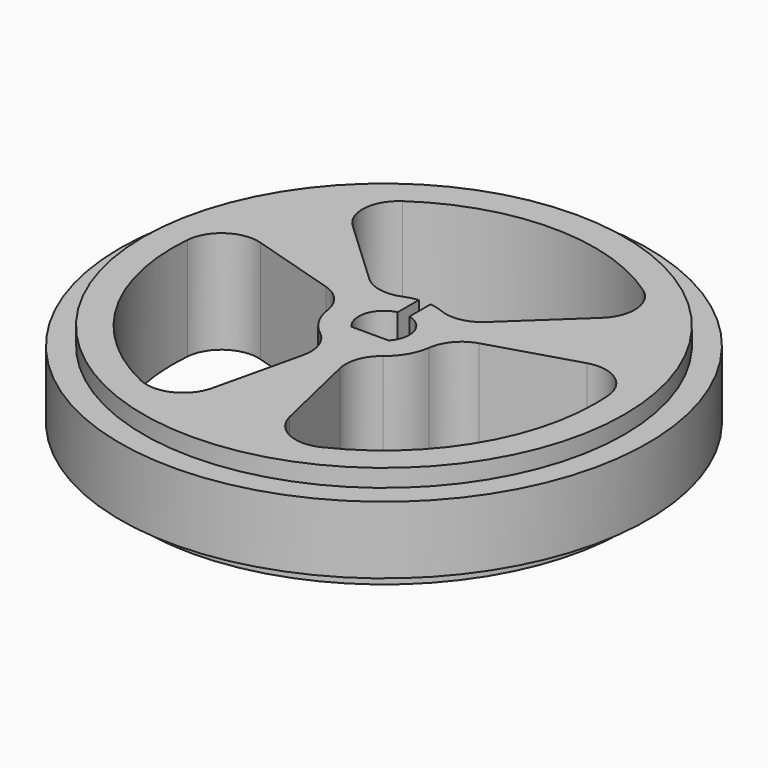
from build123d import *

# Parameters (mm, degrees)
F3_DEPTH = 7
F4_R     = 2.5


with BuildPart() as f1:
    # F0 (on Front) → F1 (revolve)
    with BuildSketch(Plane.XZ):
        Polygon((-16.4, 0), (0, 0), (0, 7), (-16.4, 7), (-16.4, 5.8), (-18, 5.8), (-18, 1.2), (-16.4, 1.2), align=None)
    revolve(axis=Axis((0, 0, 3.5), (0, 0, -1)))

    # F2 (on Top) → F3 (cut, through all)
    with BuildSketch(Plane.XY):
        with BuildLine():
            Line((-0.4, 3.477068), (-0.4, 1.677982))
            ThreePointArc((-0.4, 1.677982), (-1.651125, 0.499411), (-1.262933, -1.175))
            Line((-1.262933, -1.175), (1.262933, -1.175))
            ThreePointArc((1.262933, -1.175), (1.651125, 0.499411), (0.4, 1.677982))
            Line((0.4, 1.677982), (0.4, 3.477068))
            ThreePointArc((0.4, 3.477068), (1.573642, 3.126284), (2.55453, 2.392567))
            Line((2.55453, 2.392567), (10.510067, 9.843703))
            ThreePointArc((10.510067, 9.843703), (0, 14.4), (-10.510067, 9.843703))
            Line((-10.510067, 9.843703), (-2.55453, 2.392567))
            ThreePointArc((-2.55453, 2.392567), (-1.573642, 3.126284), (-0.4, 3.477068))
        make_face()
        with BuildLine():
            ThreePointArc((3.349289, 1.016005), (3.031089, -1.75), (0.794758, -3.408571))
            Line((0.794758, -3.408571), (3.269863, -14.023837))
            ThreePointArc((3.269863, -14.023837), (11.279318, -8.951926), (14.4, 0))
            ThreePointArc((14.4, 0), (14.244139, 2.112937), (13.77993, 4.180134))
            Line((13.77993, 4.180134), (3.349289, 1.016005))
        make_face()
        with BuildLine():
            ThreePointArc((-0.794758, -3.408571), (-3.031089, -1.75), (-3.349289, 1.016005))
            Line((-3.349289, 1.016005), (-13.77993, 4.180134))
            ThreePointArc((-13.77993, 4.180134), (-12.470766, -7.2), (-3.269863, -14.023837))
            Line((-3.269863, -14.023837), (-0.794758, -3.408571))
        make_face()
    extrude(amount=F3_DEPTH, mode=Mode.SUBTRACT)

    # F4
    f4_edges = [f1.edges().sort_by_distance(p)[0] for p in [
        (-3.349289, 1.016005, 3.5),
        (-0.794758, -3.408571, 3.5),
        (0.794758, -3.408571, 3.5),
        (3.349289, 1.016005, 3.5),
        (-2.55453, 2.392567, 3.5),
        (2.55453, 2.392567, 3.5),
        (-10.510067, 9.843703, 3.5),
        (10.510067, 9.843703, 3.5),
        (13.77993, 4.180134, 3.5),
        (3.269863, -14.023837, 3.5),
        (-3.269863, -14.023837, 3.5),
        (-13.77993, 4.180134, 3.5),
    ]]
    fillet(f4_edges, radius=F4_R)


solid = f1.part
